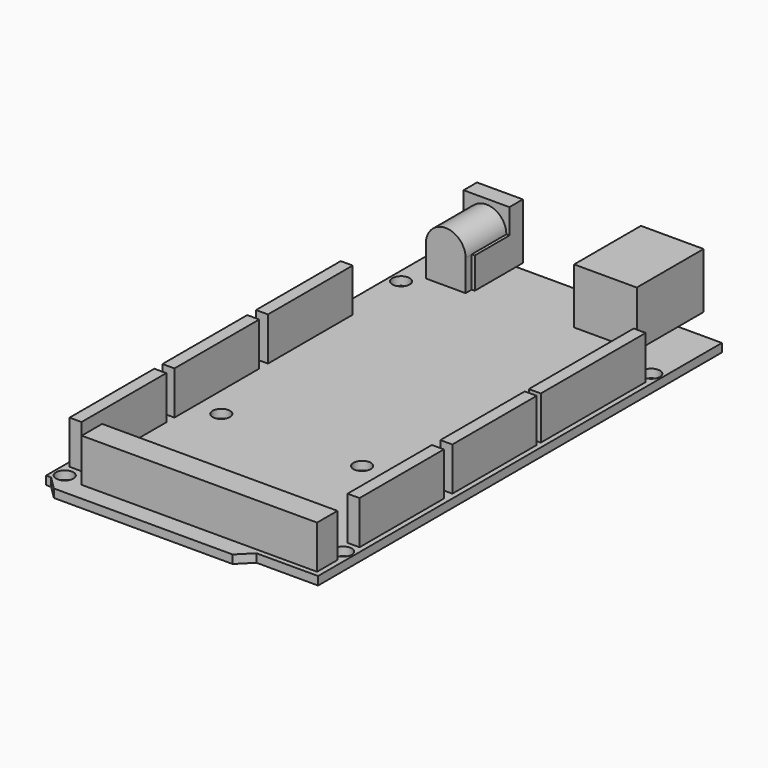
from build123d import *

# Parameters (mm, degrees)
F0_R      = 1.7
F1_DEPTH  = 1.65
F2_W      = 9
F2_H      = 1.65
F3_DEPTH  = 11
F5_DEPTH  = 10
F6_W      = 0.6
F6_H      = 6.1
F7_DEPTH  = 8.5
F8_W      = 12.3
F8_H      = 10.15
F8_H_2    = 6.25
F9_DEPTH  = 10.9
F10_W     = 2.35
F10_H     = 25.75
F10_H_2   = 20.7
F10_W_2   = 46.2
F10_H_3   = 5
F10_H_4   = 20.8
F11_DEPTH = 8.5


with BuildPart() as f1:
    # F0 (on Top) → F1 (new body)
    with BuildSketch(Plane.XY):
        Polygon((-26.7, -48.25), (-25.7, -48.25), (14.6, -48.25), (26.7, -48.25), (26.7, 50.85), (-26.7, 50.85), align=None)
        with Locations((-24.4879107922, -46.4384518564)):
            Circle(F0_R, mode=Mode.SUBTRACT)
        with Locations((-18.5, -15.5)):
            Circle(F0_R, mode=Mode.SUBTRACT)
        with Locations((24.6273092926, -39.5274497569)):
            Circle(F0_R, mode=Mode.SUBTRACT)
        with Locations((9.15, -15.5)):
            Circle(F0_R, mode=Mode.SUBTRACT)
        with Locations((-24.4879107922, 36.1)):
            Circle(F0_R, mode=Mode.SUBTRACT)
        with Locations((24.6273092926, 36.1)):
            Circle(F0_R, mode=Mode.SUBTRACT)
        Polygon((-25.7, -48.25), (-23.1, -50.85), (12, -50.85), (14.6, -48.25), align=None)
    extrude(amount=F1_DEPTH)

    # F2 (on face) → F3 (join)
    with BuildSketch(Plane.XY.offset(1.65)):
        with Locations((-18.2, 50.025)):
            Rectangle(F2_W, F2_H)
        with Locations((-18.2, 51.675)):
            Rectangle(F2_W, F2_H)
    extrude(amount=F3_DEPTH)

    # F4 (on face) → F5 (join)
    with BuildSketch(Plane.XZ.offset(-49.2)):
        with BuildLine():
            Line((-14.3, 1.65), (-14.3, 7.75))
            ThreePointArc((-14.3, 7.75), (-18.2, 11.65), (-22.1, 7.75))
            Line((-22.1, 7.75), (-22.1, 1.65))
            Line((-22.1, 1.65), (-14.3, 1.65))
        make_face()
    extrude(amount=F5_DEPTH)

    # F6 (on face) → F7 (join)
    with BuildSketch(Plane.XZ.offset(-49.2)):
        with Locations((-22.4, 4.7)):
            Rectangle(F6_W, F6_H)
        with Locations((-14, 4.7)):
            Rectangle(F6_W, F6_H)
    extrude(amount=F7_DEPTH)

    # F8 (on face) → F9 (join)
    with BuildSketch(Plane.XY.offset(1.65)):
        with Locations((11.95, 45.775)):
            Rectangle(F8_W, F8_H)
        with Locations((11.95, 53.975)):
            Rectangle(F8_W, F8_H_2)
    extrude(amount=F9_DEPTH)

    # F10 (on face) → F11 (join)
    with BuildSketch(Plane.XY.offset(1.65)):
        with Locations((24.525, 20.525)):
            Rectangle(F10_W, F10_H)
        with Locations((24.525, -3.7)):
            Rectangle(F10_W, F10_H_2)
        with Locations((24.525, -26.4774497569)):
            Rectangle(F10_W, F10_H_2)
        with Locations((2.6, -44.75)):
            Rectangle(F10_W_2, F10_H_3)
        with Locations((-24.525, -33.3384518564)):
            Rectangle(F10_W, F10_H_4)
        with Locations((-24.525, -10.5384518564)):
            Rectangle(F10_W, F10_H_4)
        with Locations((-24.525, 12.4115481436)):
            Rectangle(F10_W, F10_H_4)
    extrude(amount=F11_DEPTH)


solid = f1.part
